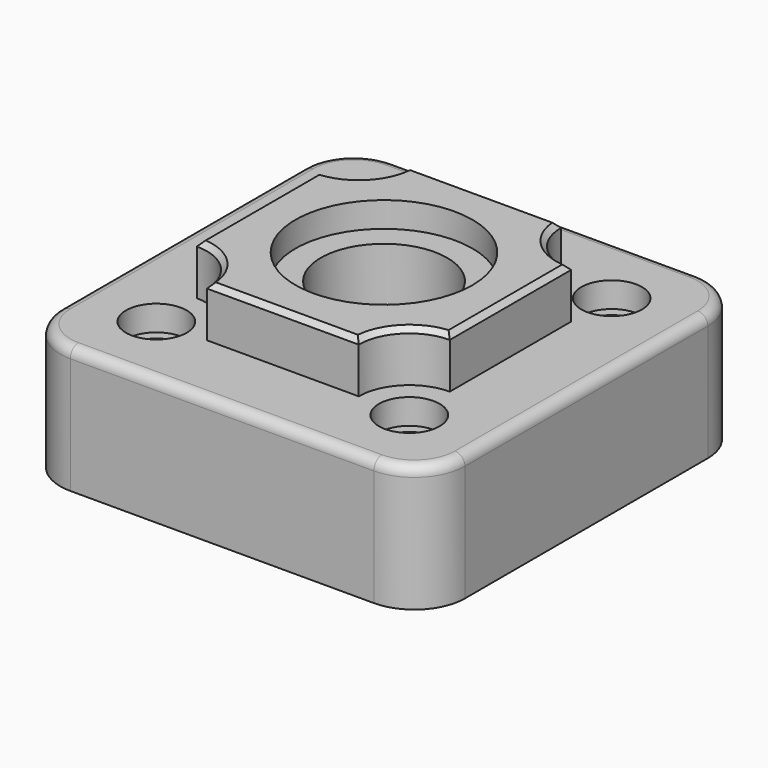
from build123d import *

# Parameters (mm, degrees)
F3_R      = 4
F3_R_2    = 12.5
F7_DEPTH  = 25
F4_R      = 12.5
F8_DEPTH  = 10
F5_R      = 17.5
F9_DEPTH  = 5
F6_R      = 6
F10_DEPTH = 5
F11_SIZE  = 1
F12_R     = 2


with BuildPart() as f7:
    # F3 (on Top) → F7 (new body)
    with BuildSketch(Plane.XY):
        with BuildLine():
            Line((30, 40), (-30, 40))
            ThreePointArc((-30, 40), (-37.071068, 37.071068), (-40, 30))
            Line((-40, 30), (-40, -30))
            ThreePointArc((-40, -30), (-37.071068, -37.071068), (-30, -40))
            Line((-30, -40), (30, -40))
            ThreePointArc((30, -40), (37.071068, -37.071068), (40, -30))
            Line((40, -30), (40, 30))
            ThreePointArc((40, 30), (37.071068, 37.071068), (30, 40))
        make_face()
        with Locations((-25, -25)):
            Circle(F3_R, mode=Mode.SUBTRACT)
        with Locations((25, -25)):
            Circle(F3_R, mode=Mode.SUBTRACT)
        with Locations((-25, 25)):
            Circle(F3_R, mode=Mode.SUBTRACT)
        Circle(F3_R_2, mode=Mode.SUBTRACT)
        with Locations((25, 25)):
            Circle(F3_R, mode=Mode.SUBTRACT)
    extrude(amount=F7_DEPTH)

    # F4 (on offset) → F8 (join)
    with BuildSketch(Plane.XY.offset(25)):
        with BuildLine():
            Line((15, 25), (-15, 25))
            ThreePointArc((-15, 25), (-17.928932, 17.928932), (-25, 15))
            Line((-25, 15), (-25, -15))
            ThreePointArc((-25, -15), (-17.928932, -17.928932), (-15, -25))
            Line((-15, -25), (15, -25))
            ThreePointArc((15, -25), (17.928932, -17.928932), (25, -15))
            Line((25, -15), (25, 15))
            ThreePointArc((25, 15), (17.928932, 17.928932), (15, 25))
        make_face()
        Circle(F4_R, mode=Mode.SUBTRACT)
    extrude(amount=F8_DEPTH)

    # F5 (on offset) → F9 (cut)
    with BuildSketch(Plane.XY.offset(30)):
        Circle(F5_R)
    extrude(amount=F9_DEPTH, mode=Mode.SUBTRACT)

    # F6 (on offset) → F10 (cut)
    with BuildSketch(Plane.XY.offset(20)):
        with Locations((-25, 25)):
            Circle(F6_R)
        with Locations((25, 25)):
            Circle(F6_R)
        with Locations((25, -25)):
            Circle(F6_R)
        with Locations((-25, -25)):
            Circle(F6_R)
    extrude(amount=F10_DEPTH, mode=Mode.SUBTRACT)

    # F11
    f11_edges = [f7.edges().sort_by_distance(p)[0] for p in [
        (-17.928932, 17.928932, 35),
        (-25, 0, 35),
        (-17.928932, -17.928932, 35),
        (0, -25, 35),
        (17.928932, -17.928932, 35),
        (25, 0, 35),
        (17.928932, 17.928932, 35),
        (0, 25, 35),
    ]]
    chamfer(f11_edges, length=F11_SIZE)

    # F12
    f12_edges = [f7.edges().sort_by_distance(p)[0] for p in [
        (-37.071068, -37.071068, 25),
        (-40, 0, 25),
    ]]
    fillet(f12_edges, radius=F12_R)


solid = f7.part
